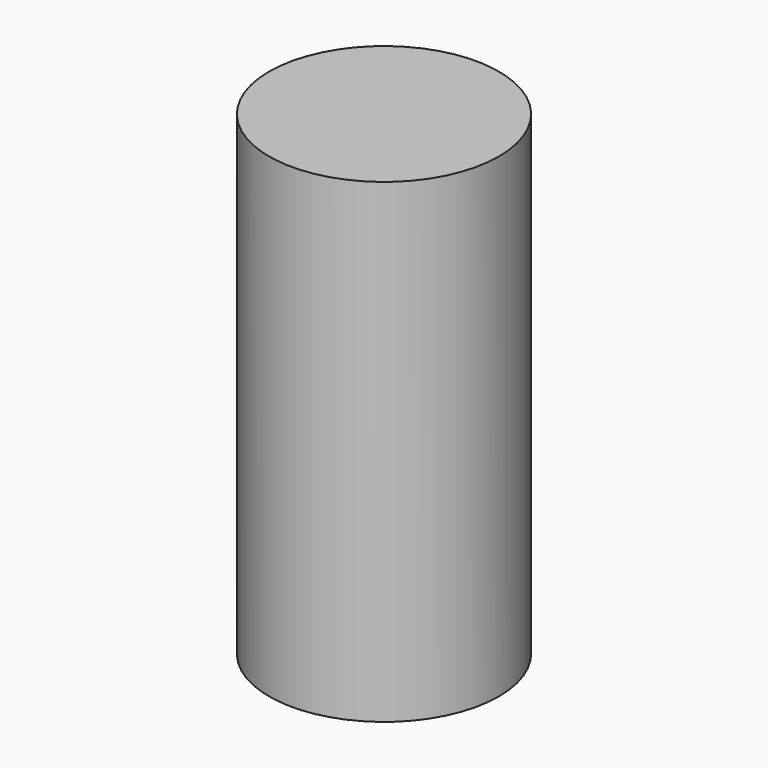
from build123d import *

# Parameters (mm, degrees)
CYLINDER_R     = 3.62585
CYLINDER_DEPTH = 15


with BuildPart() as part:
    # Cylinder → Cylinder (new body)
    with BuildSketch(Plane.XY.offset(-2.5)):
        Circle(CYLINDER_R)
    extrude(amount=CYLINDER_DEPTH)


solid = part.part
